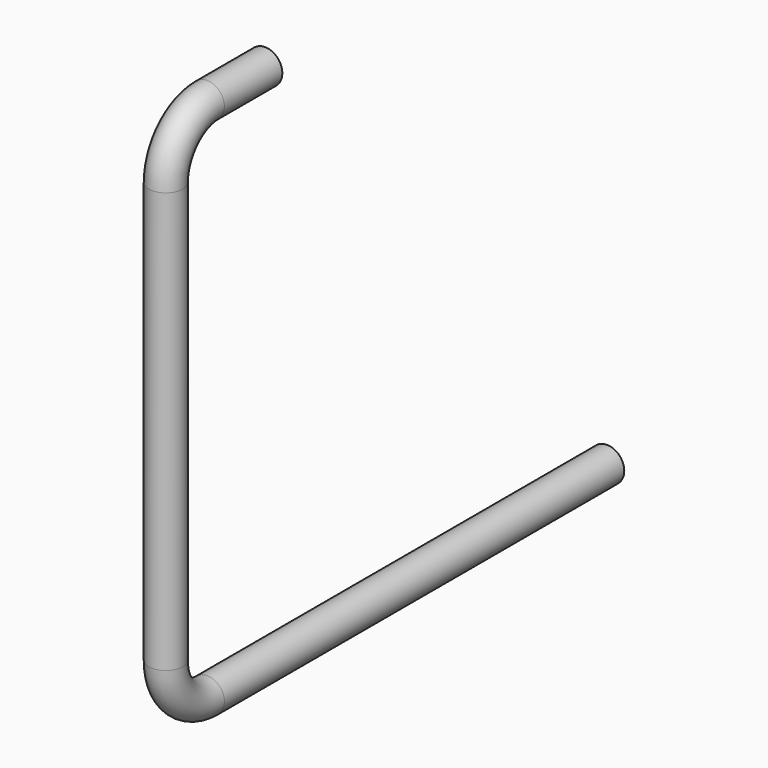
from build123d import *

# Parameters (mm, degrees)
F1_R   = 62.5
F1_R_2 = 55.1


with BuildPart() as f2:
    # F2: sweep along a path in F0
    with BuildLine(Plane.YZ) as f2_path:
        Line((0, 0), (-262.5, 0))
        ThreePointArc((-262.5, 0), (-395.082521, -54.917479), (-450, -187.5))
        Line((-450, -187.5), (-450, -1712.5))
        ThreePointArc((-450, -1712.5), (-395.082521, -1845.082521), (-262.5, -1900))
        Line((-262.5, -1900), (1550, -1900))
    # F1 (on Front) → F2 (sweep)
    with BuildSketch(Plane.XZ):
        Circle(F1_R)
        Circle(F1_R_2, mode=Mode.SUBTRACT)
    sweep(path=f2_path.line)


solid = f2.part
